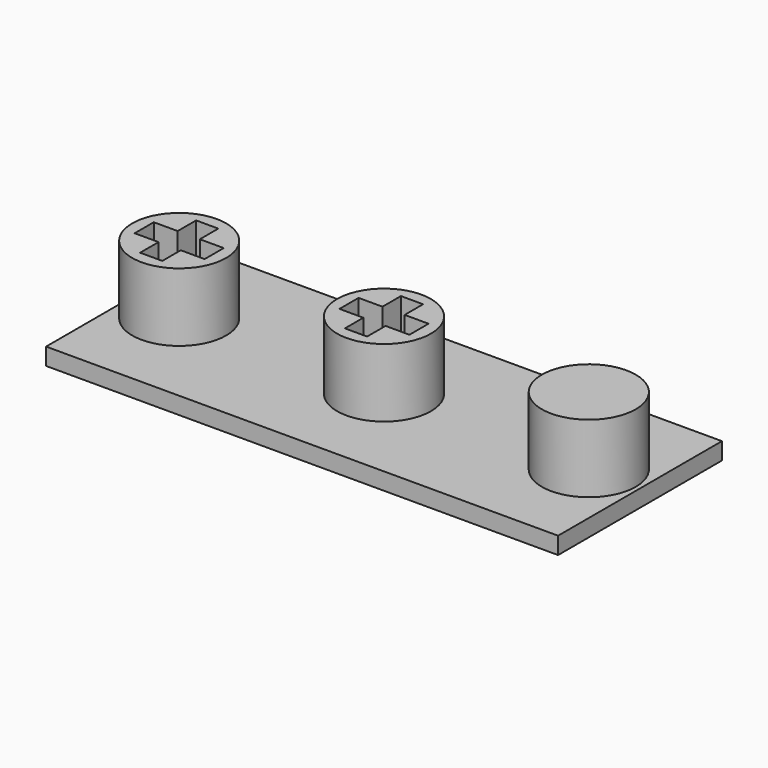
from build123d import *

# Parameters (mm, degrees)
SKETCH_W     = 30
SKETCH_H     = 12
PAD_DEPTH    = 1
SKETCH001_R  = 2.75
PAD001_DEPTH = 4
POCKET_DEPTH = 4


with BuildPart() as part:
    # Sketch → Pad (new body)
    with BuildSketch(Plane.XY):
        Rectangle(SKETCH_W, SKETCH_H)
    extrude(amount=PAD_DEPTH)

    # Sketch001 (on Face6 of Pad) → Pad001 (join)
    with BuildSketch(Plane.XY.offset(1)):
        Circle(SKETCH001_R)
        with Locations((-12, 0)):
            Circle(SKETCH001_R)
        with Locations((12, 0)):
            Circle(SKETCH001_R)
    extrude(amount=PAD001_DEPTH)

    # Sketch002 (on Face11 of Pad001) → Pocket (cut)
    with BuildSketch(Plane.XY.offset(5)):
        Polygon((-0.65, 2.05), (-0.65, 0.7), (-2.05, 0.7), (-2.05, -0.7), (-0.65, -0.7), (-0.65, -2.05), (0.65, -2.05), (0.65, -0.7), (2.05, -0.7), (2.05, 0.7), (0.65, 0.7), (0.65, 2.05), align=None)
        Polygon((-12.65, 2.05), (-12.65, 0.7), (-14.05, 0.7), (-14.05, -0.7), (-12.65, -0.7), (-12.65, -2.05), (-11.35, -2.05), (-11.35, -0.7), (-9.95, -0.7), (-9.95, 0.7), (-11.35, 0.7), (-11.35, 2.05), align=None)
    extrude(amount=-POCKET_DEPTH, mode=Mode.SUBTRACT)


solid = part.part
